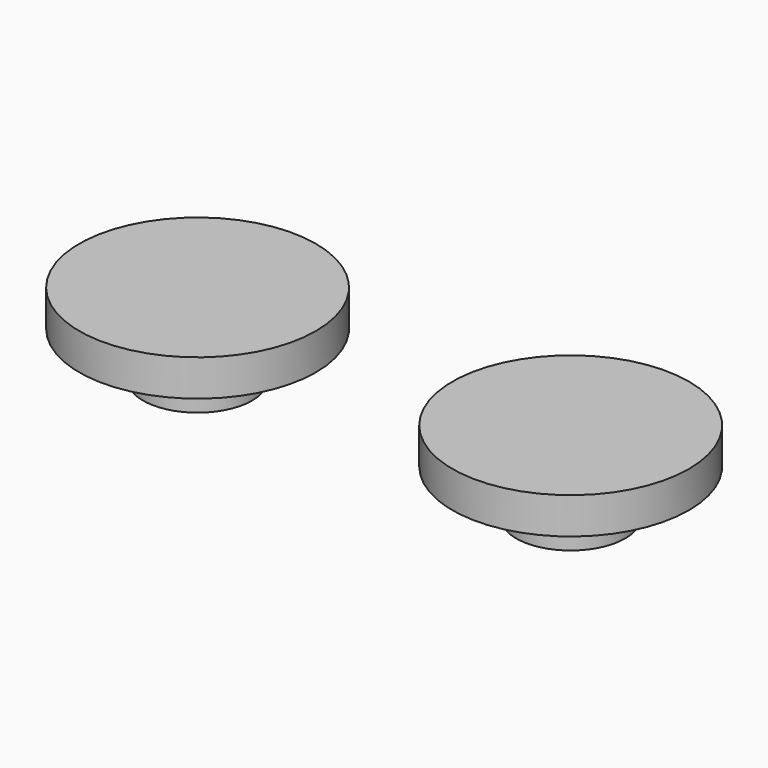
from build123d import *

# Parameters (mm, degrees)
F0_R      = 3
F1_DEPTH  = 2.5
F2_R      = 6.5
F2_R_2    = 3
F1_FACE_R = 3
F3_DEPTH  = 2
F4_R      = 3
F5_DEPTH  = 2.5
F6_R      = 6.5
F6_R_2    = 3
F7_DEPTH  = 2


with BuildPart() as f1:
    # F0 (on Top) → F1 (new body)
    with BuildSketch(Plane.XY):
        Circle(F0_R)
    extrude(amount=F1_DEPTH)

    # F2 (on face) + F1_face (on face) → F3 (join)
    with BuildSketch(Plane.XY.offset(2.5)):
        Circle(F2_R)
        Circle(F2_R_2, mode=Mode.SUBTRACT)
        Circle(F2_R_2)
    with BuildSketch(Plane.XY.offset(2.5)):
        Circle(F1_FACE_R)
        Circle(F1_FACE_R)
    extrude(amount=F3_DEPTH)


with BuildPart() as f5:
    # F4 (on Top) → F5 (new body)
    with BuildSketch(Plane.XY):
        with Locations((20.503248, 0)):
            Circle(F4_R)
    extrude(amount=F5_DEPTH)

    # F6 (on face) → F7 (join)
    with BuildSketch(Plane.XY.offset(2.5)):
        with Locations((20.503248, 0)):
            Circle(F6_R)
        with Locations((20.503248, 0)):
            Circle(F6_R_2, mode=Mode.SUBTRACT)
        with Locations((20.503248, 0)):
            Circle(F6_R_2)
    extrude(amount=F7_DEPTH)


solid = Compound([f1.part, f5.part])
